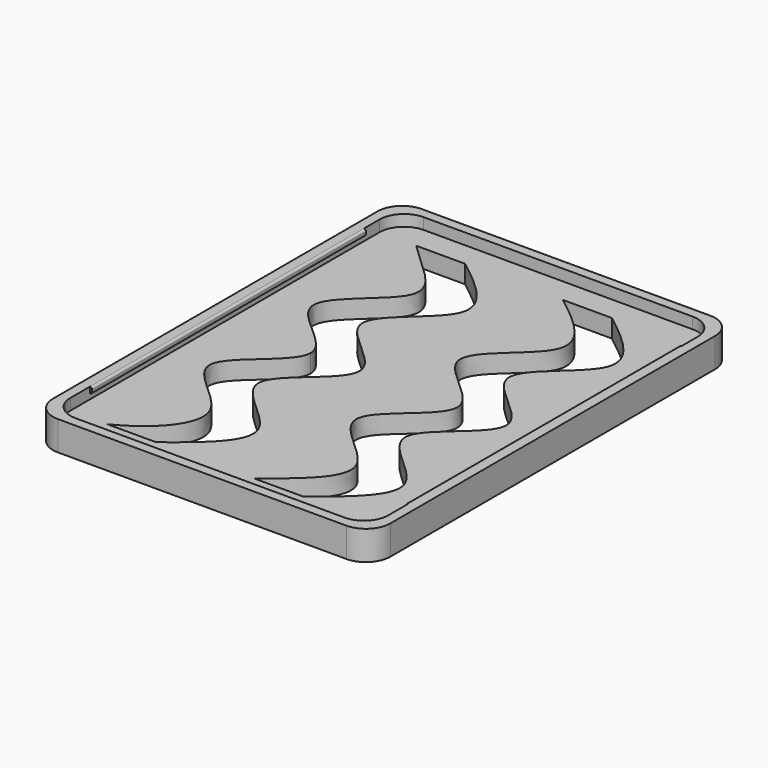
from build123d import *

# Parameters (mm, degrees)
F0_W     = 69
F0_H     = 93
F1_DEPTH = 6
F2_W     = 65
F2_H     = 89
F3_DEPTH = 2.3
F7_DEPTH = 70
F9_DEPTH = 25
F10_R    = 5
F11_R    = 5


with BuildPart() as f1:
    # F0 (on Top) → F1 (new body)
    with BuildSketch(Plane.XY):
        with Locations((34.5, -46.5)):
            Rectangle(F0_W, F0_H)
    extrude(amount=F1_DEPTH)

    # F2 (on face) → F3 (cut)
    with BuildSketch(Plane.XY.offset(6)):
        with Locations((34.5, -46.5)):
            Rectangle(F2_W, F2_H)
    extrude(amount=-F3_DEPTH, mode=Mode.SUBTRACT)

    # F6 (on offset) → F7 (join)
    with BuildSketch(Plane(origin=(0, -81, 0), x_dir=(-1, 0, 0), z_dir=(0, 1, 0))):
        with BuildLine():
            Line((-2, 4.725), (-2, 6))
            ThreePointArc((-2, 6), (-2.300520382, 5.875520382), (-2.425, 5.575))
            Line((-2.425, 5.575), (-2.425, 5.15))
            ThreePointArc((-2.425, 5.15), (-2.300520382, 4.849479618), (-2, 4.725))
        make_face()
        with BuildLine():
            ThreePointArc((-66.575, 5.575), (-66.699479618, 5.875520382), (-67, 6))
            Line((-67, 6), (-67, 4.725))
            ThreePointArc((-67, 4.725), (-66.699479618, 4.849479618), (-66.575, 5.15))
            Line((-66.575, 5.15), (-66.575, 5.575))
        make_face()
    extrude(amount=F7_DEPTH)

    # F8 (on face) → F9 (cut)
    with BuildSketch(Plane(origin=(0, 0, 0), x_dir=(1, 0, 0), z_dir=(0, 0, -1))):
        with BuildLine():
            add(Edge.make_bspline(
                [(19.5, 46.5), (19.4846182323, 42.1498360688), (0.2560509002, 33.6161654176), (26.9842030492, 20.0642585554), (14.9732489603, 12.5553517099), (9.5, 7)],
                knots=[0.5, 0.5, 0.5, 0.5, 0.6659975311, 0.8319950621, 1, 1, 1, 1], degree=3))
            Line((9.5, 7), (19.5, 7))
            add(Edge.make_bspline(
                [(19.5, 86), (25.3014462541, 81.4693588254), (36.8350201887, 72.4622108366), (10.2918701745, 59.5224349878), (39.1040649128, 46.5), (10.2918701745, 33.4775650122), (36.8350201887, 20.5377891634), (25.3014462541, 11.5306411746), (19.5, 7)],
                knots=[0, 0, 0, 0, 0.1680049379, 0.3340024689, 0.5, 0.6659975311, 0.8319950621, 1, 1, 1, 1], degree=3))
            Line((19.5, 86), (9.5, 86))
            add(Edge.make_bspline(
                [(9.5, 86), (15.7872917458, 82.9890155191), (26.6131805096, 71.7630948123), (0.3623291614, 59.7235642181), (19.484658964, 50.8643871362), (19.5, 46.5209352788)],
                knots=[0, 0, 0, 0, 0.1680049379, 0.3340024689, 0.499733719, 0.499733719, 0.499733719, 0.499733719], degree=3))
            Line((19.5, 46.5209352788), (19.5, 46.5))
        make_face()
        with BuildLine():
            Line((49.5, 86), (39.5, 86))
            add(Edge.make_bspline(
                [(39.5, 86), (45.3014462541, 81.4693588254), (56.8350201887, 72.4622108366), (30.2918701745, 59.5224349878), (59.1040649128, 46.5), (30.2918701745, 33.4775650122), (56.8350201887, 20.5377891634), (45.3014462541, 11.5306411746), (39.5, 7)],
                knots=[0, 0, 0, 0, 0.1680049379, 0.3340024689, 0.5, 0.6659975311, 0.8319950621, 1, 1, 1, 1], degree=3))
            Line((39.5, 7), (49.5, 7))
            add(Edge.make_bspline(
                [(49.5, 86), (55.3014462541, 81.4693588254), (66.8350201887, 72.4622108366), (40.2918701745, 59.5224349878), (69.1040649128, 46.5), (40.2918701745, 33.4775650122), (66.8350201887, 20.5377891634), (55.3014462541, 11.5306411746), (49.5, 7)],
                knots=[0, 0, 0, 0, 0.1680049379, 0.3340024689, 0.5, 0.6659975311, 0.8319950621, 1, 1, 1, 1], degree=3))
        make_face()
    extrude(amount=-F9_DEPTH, mode=Mode.SUBTRACT)

    # F10
    f10_edges = [f1.edges().sort_by_distance(p)[0] for p in [
        (69, 0, 3),
        (0, 0, 3),
        (0, -93, 3),
        (69, -93, 3),
    ]]
    fillet(f10_edges, radius=F10_R)

    # F11
    f11_edges = [f1.edges().sort_by_distance(p)[0] for p in [
        (2, -91, 4.85),
        (67, -91, 4.85),
        (2, -2, 4.85),
        (67, -2, 4.85),
    ]]
    fillet(f11_edges, radius=F11_R)


solid = f1.part
